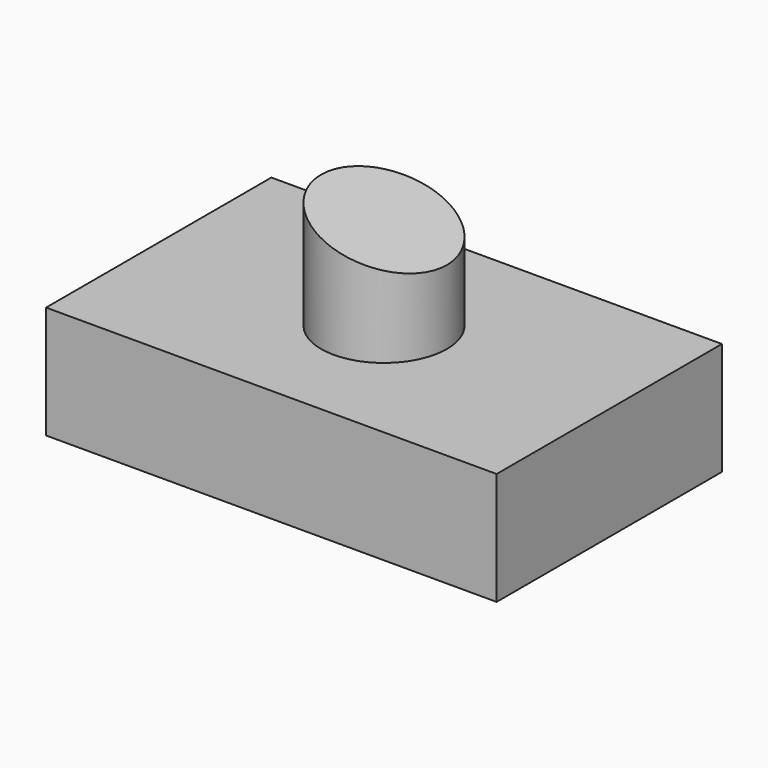
from build123d import *

# Parameters (mm, degrees)
F0_W     = 101.6
F0_H     = 63.5
F2_DEPTH = 25.4
F1_R     = 14.185662
F3_DEPTH = 50.8
F5_DEPTH = 25.4


with BuildPart() as f2:
    # F0 (on Top) → F2 (new body)
    with BuildSketch(Plane.XY):
        Rectangle(F0_W, F0_H)
    extrude(amount=F2_DEPTH)

    # F1 (on face) → F3 (join)
    with BuildSketch(Plane.XY):
        Circle(F1_R)
    extrude(amount=F3_DEPTH)

    # F4 (on Front) → F5 (cut, symmetric)
    with BuildSketch(Plane.XZ):
        Polygon((14.185662, 50.8), (-14.185662, 50.8), (14.185662, 42.07477), align=None)
    extrude(amount=F5_DEPTH, both=True, mode=Mode.SUBTRACT)


solid = f2.part
